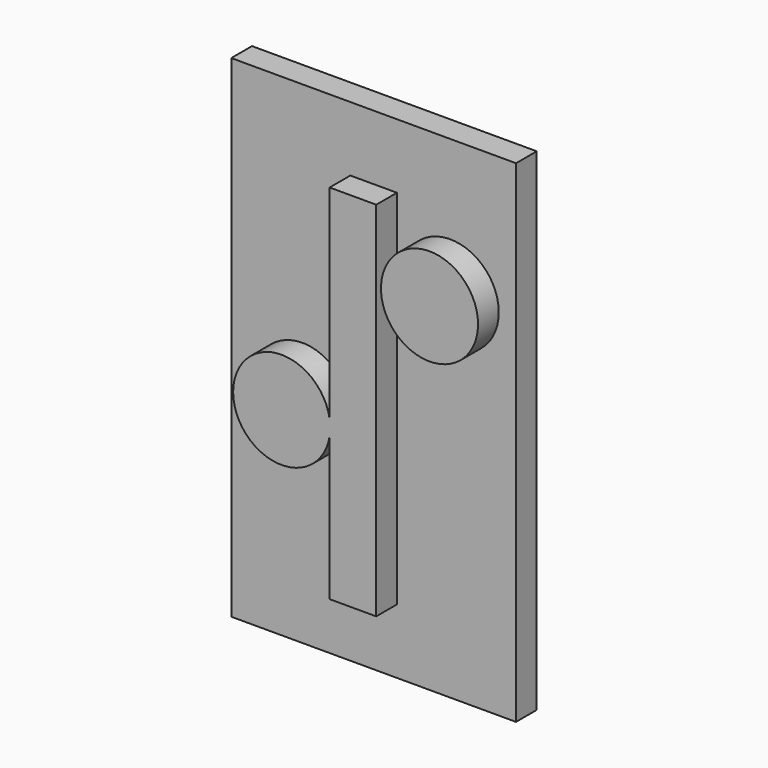
from build123d import *

# Parameters (mm, degrees)
F0_W     = 69.85
F0_H     = 120.65
F0_W_2   = 9.525
F0_H_2   = 25.4
F1_DEPTH = 6.35
F3_R     = 11.90625
F4_DEPTH = 12.7
F2_R     = 11.90625
F5_DEPTH = 12.7
F6_W     = 11.43
F6_H     = 88.9
F7_DEPTH = 12.7


with BuildPart() as f1:
    # F0 (on Front) → F1 (new body)
    with BuildSketch(Plane.XZ):
        Rectangle(F0_W, F0_H)
        Rectangle(F0_W_2, F0_H_2, mode=Mode.SUBTRACT)
    extrude(amount=F1_DEPTH)

    # F3 (on Front) → F4 (join)
    with BuildSketch(Plane.XZ):
        with Locations((18.782835, 26.751311)):
            Circle(F3_R)
    extrude(amount=F4_DEPTH)

    # F2 (on Front) → F5 (join)
    with BuildSketch(Plane.XZ):
        with Locations((-17.48186, -7.399299)):
            Circle(F2_R)
    extrude(amount=F5_DEPTH)

    # F6 (on Front) → F7 (join)
    with BuildSketch(Plane.XZ):
        Rectangle(F6_W, F6_H)
    extrude(amount=F7_DEPTH)


solid = f1.part
